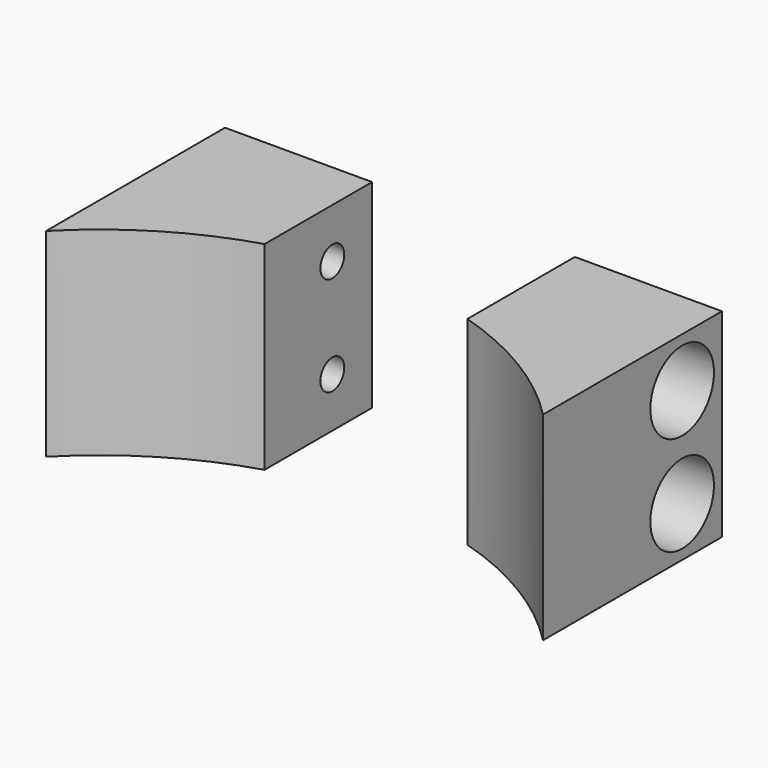
from build123d import *

# Parameters (mm, degrees)
CYLINDER1958_R     = 1.5
CYLINDER1958_DEPTH = 20
CYLINDER1965_R     = 1.5
CYLINDER1965_DEPTH = 20
CYLINDER1966_R     = 1.5
CYLINDER1966_DEPTH = 20
CYLINDER1951_R     = 1.5
CYLINDER1951_DEPTH = 20
CYLINDER1957_R     = 4
CYLINDER1957_DEPTH = 20
CYLINDER1967_R     = 4
CYLINDER1967_DEPTH = 20
CYLINDER1964_R     = 4
CYLINDER1964_DEPTH = 20
CYLINDER1953_R     = 4
CYLINDER1953_DEPTH = 20
BOX748_W           = 20.4
BOX748_H           = 27
BOX748_DEPTH       = 20
CYLINDER1959_R     = 35
CYLINDER1959_DEPTH = 20
BOX755_W           = 50
BOX755_H           = 32
BOX755_DEPTH       = 20


with BuildPart() as obj1:
    # Cylinder1958 → Cylinder1958 (new body)
    with BuildSketch(Plane(origin=(-24, 38, 25), x_dir=(0, 0, -1), z_dir=(1, 0, 0))):
        Circle(CYLINDER1958_R)
    extrude(amount=CYLINDER1958_DEPTH)


with BuildPart() as obj2:
    # Cylinder1965 → Cylinder1965 (new body)
    with BuildSketch(Plane(origin=(4, 38, 15), x_dir=(0, 0, -1), z_dir=(1, 0, 0))):
        Circle(CYLINDER1965_R)
    extrude(amount=CYLINDER1965_DEPTH)


with BuildPart() as obj3:
    # Cylinder1966 → Cylinder1966 (new body)
    with BuildSketch(Plane(origin=(-24, 38, 15), x_dir=(0, 0, -1), z_dir=(1, 0, 0))):
        Circle(CYLINDER1966_R)
    extrude(amount=CYLINDER1966_DEPTH)


with BuildPart() as compound930:
    # Cylinder1951 → Cylinder1951 (new body)
    with BuildSketch(Plane(origin=(4, 38, 25), x_dir=(0, 0, -1), z_dir=(1, 0, 0))):
        Circle(CYLINDER1951_R)
    extrude(amount=CYLINDER1951_DEPTH)

    # Compound930: union obj1, obj2, obj3
    add(obj1.part)
    add(obj2.part)
    add(obj3.part)


with BuildPart() as compound930_1:
    # Compound930 placement: moved
    add(compound930.part.moved(Location((0, 4, 0))))


with BuildPart() as obj4:
    # Cylinder1957 → Cylinder1957 (new body)
    with BuildSketch(Plane(origin=(-38, 38, 25), x_dir=(0, 0, -1), z_dir=(1, 0, 0))):
        Circle(CYLINDER1957_R)
    extrude(amount=CYLINDER1957_DEPTH)


with BuildPart() as obj5:
    # Cylinder1967 → Cylinder1967 (new body)
    with BuildSketch(Plane(origin=(18, 38, 15), x_dir=(0, 0, -1), z_dir=(1, 0, 0))):
        Circle(CYLINDER1967_R)
    extrude(amount=CYLINDER1967_DEPTH)


with BuildPart() as obj6:
    # Cylinder1964 → Cylinder1964 (new body)
    with BuildSketch(Plane(origin=(-38, 38, 15), x_dir=(0, 0, -1), z_dir=(1, 0, 0))):
        Circle(CYLINDER1964_R)
    extrude(amount=CYLINDER1964_DEPTH)


with BuildPart() as compound928:
    # Cylinder1953 → Cylinder1953 (new body)
    with BuildSketch(Plane(origin=(18, 38, 25), x_dir=(0, 0, -1), z_dir=(1, 0, 0))):
        Circle(CYLINDER1953_R)
    extrude(amount=CYLINDER1953_DEPTH)

    # Compound928: union obj4, obj5, obj6
    add(obj4.part)
    add(obj5.part)
    add(obj6.part)


with BuildPart() as compound928_1:
    # Compound928 placement: moved
    add(compound928.part.moved(Location((0, 4, 0))))


with BuildPart() as krychle748:
    # Box748 → Box748 (new body)
    with BuildSketch(Plane(origin=(-10.2, 20, 10), x_dir=(1, 0, 0), z_dir=(0, 0, 1))):
        with Locations((10.2, 13.5)):
            Rectangle(BOX748_W, BOX748_H)
    extrude(amount=BOX748_DEPTH)


with BuildPart() as obj7:
    # Cylinder1959 → Cylinder1959 (new body)
    with BuildSketch(Plane.XY.offset(10)):
        Circle(CYLINDER1959_R)
    extrude(amount=CYLINDER1959_DEPTH)


with BuildPart() as cut576:
    # Box755 → Box755 (new body)
    with BuildSketch(Plane(origin=(-25, 15, 10), x_dir=(1, 0, 0), z_dir=(0, 0, 1))):
        with Locations((25, 16)):
            Rectangle(BOX755_W, BOX755_H)
    extrude(amount=BOX755_DEPTH)

    # Cut577: cut obj7
    add(obj7.part, mode=Mode.SUBTRACT)

    # Cut578: cut Krychle748
    add(krychle748.part, mode=Mode.SUBTRACT)

    # Cut581: cut Compound928
    add(compound928_1.part, mode=Mode.SUBTRACT)

    # Cut576: cut Compound930
    add(compound930_1.part, mode=Mode.SUBTRACT)


solid = cut576.part
